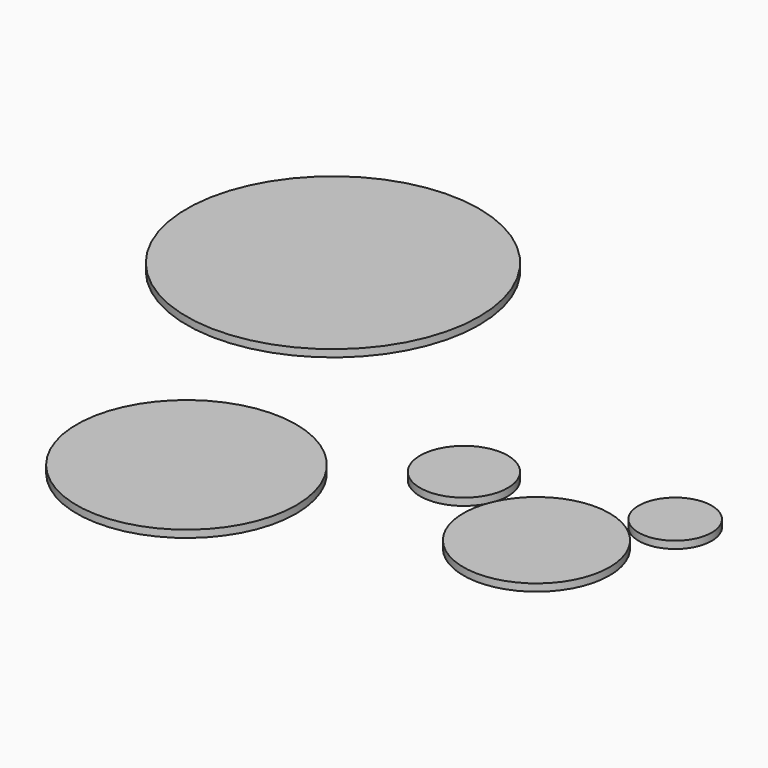
from build123d import *

# Parameters (mm, degrees)
F0_R     = 50.8
F1_DEPTH = 2.54
F0_R_2   = 38.1
F0_R_3   = 15.24
F0_R_4   = 25.4
F0_R_5   = 12.7
F2_DEPTH = 2.54


with BuildPart() as f1:
    # F0 (on Top) → F1 (new body)
    with BuildSketch(Plane.XY):
        with Locations((-110.805176, 109.707817)):
            Circle(F0_R)
    extrude(amount=F1_DEPTH)


with BuildPart() as f2:
    # F0 (on Top) → F2 (new body)
    with BuildSketch(Plane.XY):
        with Locations((-67.635871, -7.874447)):
            Circle(F0_R_2)
        with Locations((-6.32768, 35.997469)):
            Circle(F0_R_3)
        with Locations((34.169476, 16.873814)):
            Circle(F0_R_4)
        with Locations((55.824202, 50.05898)):
            Circle(F0_R_5)
    extrude(amount=F2_DEPTH)


solid = Compound([f1.part, f2.part])
